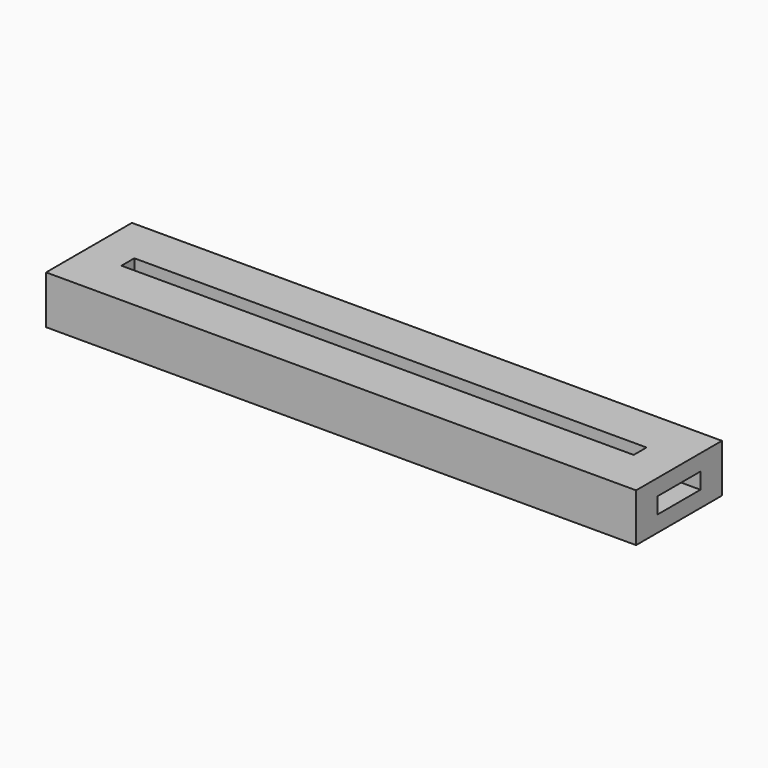
from build123d import *

# Parameters (mm, degrees)
SKETCH_W      = 110
SKETCH_H      = 20
PAD_DEPTH     = 3
SKETCH001_W   = 110
SKETCH001_H   = 5
PAD001_DEPTH  = 3
SKETCH002_W   = 110
SKETCH002_H   = 20
SKETCH002_W_2 = 95.5
SKETCH002_H_2 = 3
PAD002_DEPTH  = 3


with BuildPart() as part:
    # Sketch → Pad (new body)
    with BuildSketch(Plane.XY):
        Rectangle(SKETCH_W, SKETCH_H)
    extrude(amount=PAD_DEPTH)

    # Sketch001 (on Face6 of Pad) → Pad001 (join)
    with BuildSketch(Plane.XY.offset(3)):
        with Locations((0, 7.5)):
            Rectangle(SKETCH001_W, SKETCH001_H)
        with Locations((0, -7.5)):
            Rectangle(SKETCH001_W, SKETCH001_H)
    extrude(amount=PAD001_DEPTH)

    # Sketch002 (on Face12 of Pad001) → Pad002 (join)
    with BuildSketch(Plane.XY.offset(6)):
        Rectangle(SKETCH002_W, SKETCH002_H)
        Rectangle(SKETCH002_W_2, SKETCH002_H_2, mode=Mode.SUBTRACT)
    extrude(amount=PAD002_DEPTH)


solid = part.part
